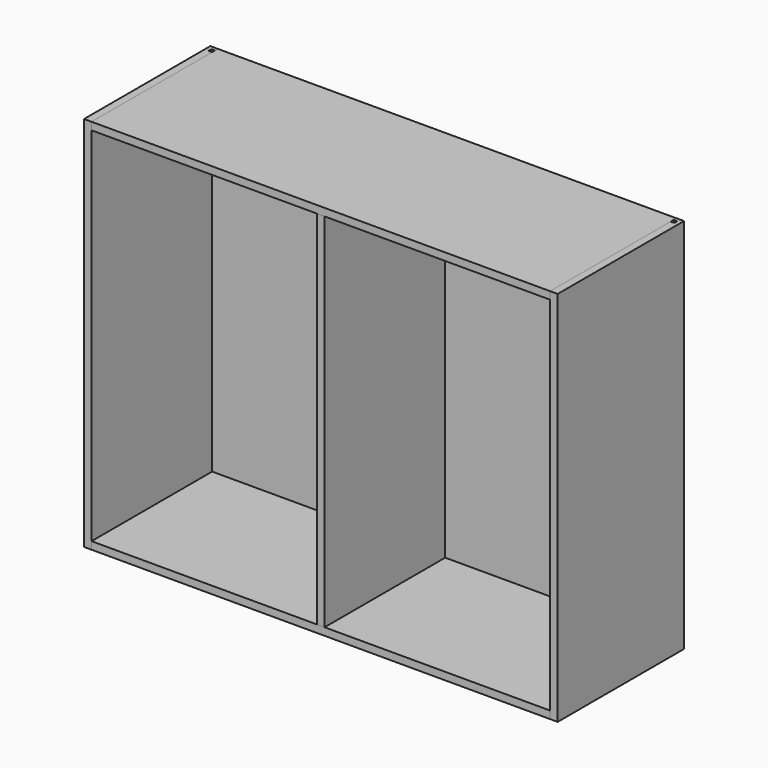
from build123d import *

# Parameters (mm, degrees)
F4_DEPTH       = 1050
F6_W           = 1278
F6_H           = 440
F7_DEPTH       = 21
F8_W           = 10
F8_H           = 10
F9_DEPTH       = 1278
F12_W          = 21
F12_H          = 420
F13_DEPTH      = 504
F13_DEPTH_BACK = 504
F14_W          = 1298
F14_H          = 10
F15_DEPTH      = 514
F15_DEPTH_BACK = 514


with BuildPart() as f4:
    # F3 (on Top) → F4 (new body, through all)
    with BuildSketch(Plane.XY):
        Polygon((-639, 440), (-660, 440), (-660, 0), (-639, 0), (-639, 420), (-649, 420), (-649, 430), (-639, 430), align=None)
    extrude(amount=-F4_DEPTH)


with BuildPart() as f5_1:
    # F5: instance of F4
    add(f4.part.mirror(Plane.YZ))


with BuildPart() as f7:
    # F6 (on Top) → F7 (new body)
    with BuildSketch(Plane.XY):
        with Locations((0, 220)):
            Rectangle(F6_W, F6_H)
    extrude(amount=-F7_DEPTH)

    # F8 (on face) → F9 (cut, through all)
    with BuildSketch(Plane.YZ.offset(639)):
        with Locations((425, -16)):
            Rectangle(F8_W, F8_H)
    extrude(amount=-F9_DEPTH, mode=Mode.SUBTRACT)


with BuildPart() as f11_1:
    # F11: instance of F7
    add(f7.part.mirror(Plane.XY.offset(-525)))


with BuildPart() as f13:
    # F12 (on offset) → F13 (new body, two sides)
    with BuildSketch(Plane.XY.offset(-525)) as f13_sk:
        with Locations((0, 210)):
            Rectangle(F12_W, F12_H)
    extrude(amount=F13_DEPTH)
    extrude(f13_sk.sketch, amount=-F13_DEPTH_BACK)


with BuildPart() as f15:
    # F14 (on offset) → F15 (new body, two sides)
    with BuildSketch(Plane.XY.offset(-525)) as f15_sk:
        with Locations((0, 425)):
            Rectangle(F14_W, F14_H)
    extrude(amount=F15_DEPTH)
    extrude(f15_sk.sketch, amount=-F15_DEPTH_BACK)


solid = Compound([f4.part, f5_1.part, f7.part, f11_1.part, f13.part, f15.part])
